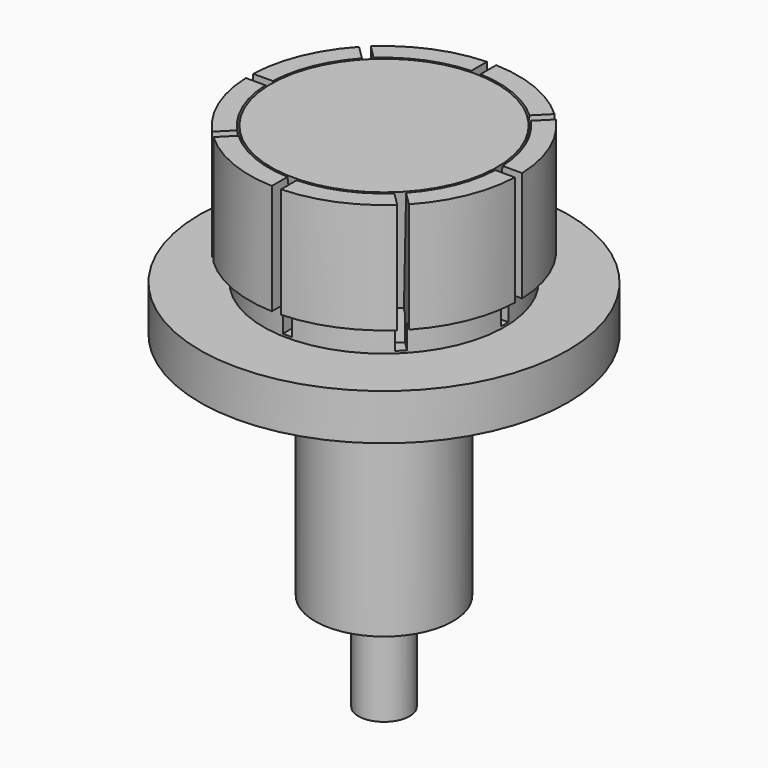
from build123d import *

# Parameters (mm, degrees)
F3_W     = 34.08392
F3_H     = 2
F3_W_2   = 2
F3_H_2   = 34.08392
F4_DEPTH = 29.5


with BuildPart() as f1:
    # F0 (on Right) → F1 (revolve)
    with BuildSketch(Plane.YZ):
        Polygon((6, 10), (6, -50), (15, -50), (15, -1), (16, -1), (16, 0), (40, 0), (40, 10), (26.25, 10), (26.25, 16), (29.25, 16), (29.25, 40), (25, 40), (21.62702, 16), (23.25, 16), (23.25, 10), align=None)
    revolve(axis=Axis((0, 0, -5), (0, 0, 1)))

    # F3 (on offset) → F4 (cut, through all)
    with BuildSketch(Plane.XY.offset(10.5)):
        with Locations((-22.95804, 0)):
            Rectangle(F3_W, F3_H)
        Polygon((-4.890407, -3.476193), (-28.991378, -27.577164), (-27.577164, -28.991378), (-3.476193, -4.890407), align=None)
        with Locations((0, -22.95804)):
            Rectangle(F3_W_2, F3_H_2)
        Polygon((3.476193, -4.890407), (27.577164, -28.991378), (28.991378, -27.577164), (4.890407, -3.476193), align=None)
        with Locations((22.95804, 0)):
            Rectangle(F3_W, F3_H)
        Polygon((4.890407, 3.476193), (28.991378, 27.577164), (27.577164, 28.991378), (3.476193, 4.890407), align=None)
        with Locations((0, 22.95804)):
            Rectangle(F3_W_2, F3_H_2)
        Polygon((-3.476193, 4.890407), (-27.577164, 28.991378), (-28.991378, 27.577164), (-4.890407, 3.476193), align=None)
    extrude(amount=F4_DEPTH, mode=Mode.SUBTRACT)


with BuildPart() as f6:
    # F5 (on Right) → F6 (revolve)
    with BuildSketch(Plane.YZ):
        Polygon((24.561521, 40), (0, 40), (0, -71.243197), (5.573114, -71.243197), (5.573114, 16), (21.188541, 16), align=None)
    revolve(axis=Axis((0, 0, -15.621598), (0, 0, 1)))


solid = Compound([f1.part, f6.part])
